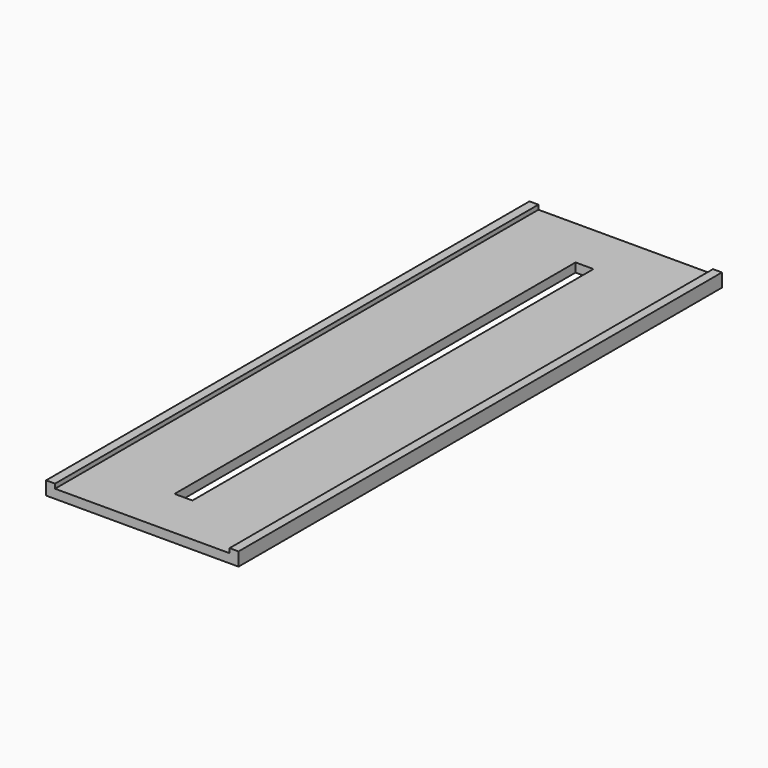
from build123d import *

# Parameters (mm, degrees)
F0_W     = 43
F0_H     = 135
F0_W_2   = 4
F0_H_2   = 112
F1_DEPTH = 2
F2_W     = 2
F2_H     = 135
F3_DEPTH = 1


with BuildPart() as f1:
    # F0 (on Top) → F1 (new body)
    with BuildSketch(Plane.XY):
        Rectangle(F0_W, F0_H)
        Rectangle(F0_W_2, F0_H_2, mode=Mode.SUBTRACT)
    extrude(amount=F1_DEPTH)

    # F2 (on face) → F3 (join)
    with BuildSketch(Plane.XY.offset(2)):
        with Locations((-20.5, 0)):
            Rectangle(F2_W, F2_H)
        with Locations((20.5, 0)):
            Rectangle(F2_W, F2_H)
    extrude(amount=F3_DEPTH)


solid = f1.part
